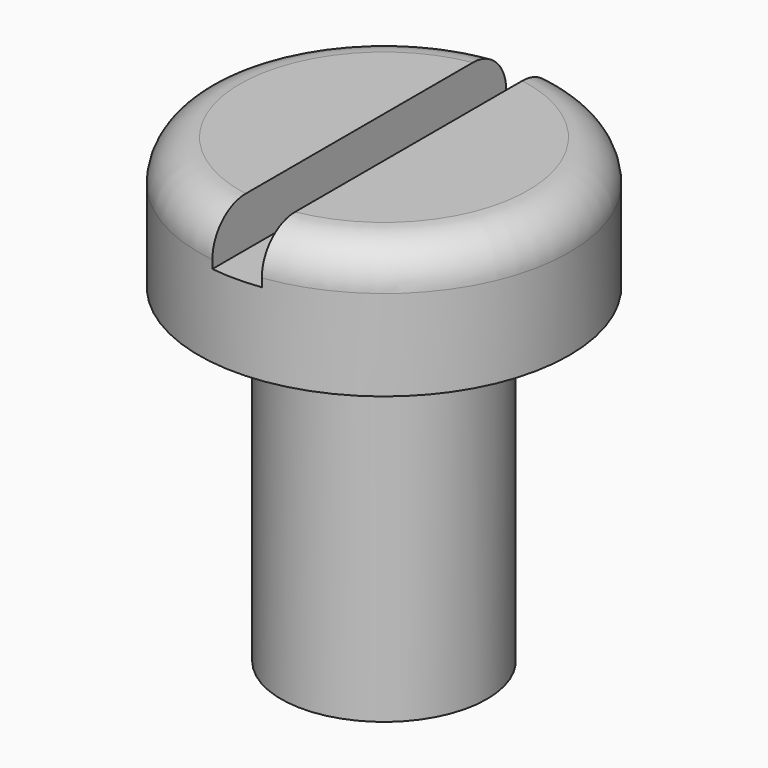
from build123d import *

# Parameters (mm, degrees)
F2_W          = 0.6
F2_H          = 0.6
F3_DEPTH      = 2.251
F3_DEPTH_BACK = 2.251


with BuildPart() as f1:
    # F0 (on Front) → F1 (revolve)
    with BuildSketch(Plane.XZ):
        with BuildLine():
            Line((1.75, 1.6), (0, 1.6))
            Line((0, 1.6), (0, -4))
            Line((0, -4), (1.25, -4))
            Line((1.25, -4), (1.25, 0))
            Line((1.25, 0), (2.25, 0))
            Line((2.25, 0), (2.25, 1.1))
            ThreePointArc((2.25, 1.1), (2.1035533906, 1.4535533906), (1.75, 1.6))
        make_face()
    revolve(axis=Axis((0, 0, 1.6484611327), (0, 0, 1)))

    # F2 (on Front) → F3 (cut, two sides)
    with BuildSketch(Plane.XZ) as f3_sk:
        with Locations((0, 1.3)):
            Rectangle(F2_W, F2_H)
    extrude(amount=-F3_DEPTH, mode=Mode.SUBTRACT)
    extrude(f3_sk.sketch, amount=F3_DEPTH_BACK, mode=Mode.SUBTRACT)


solid = f1.part
